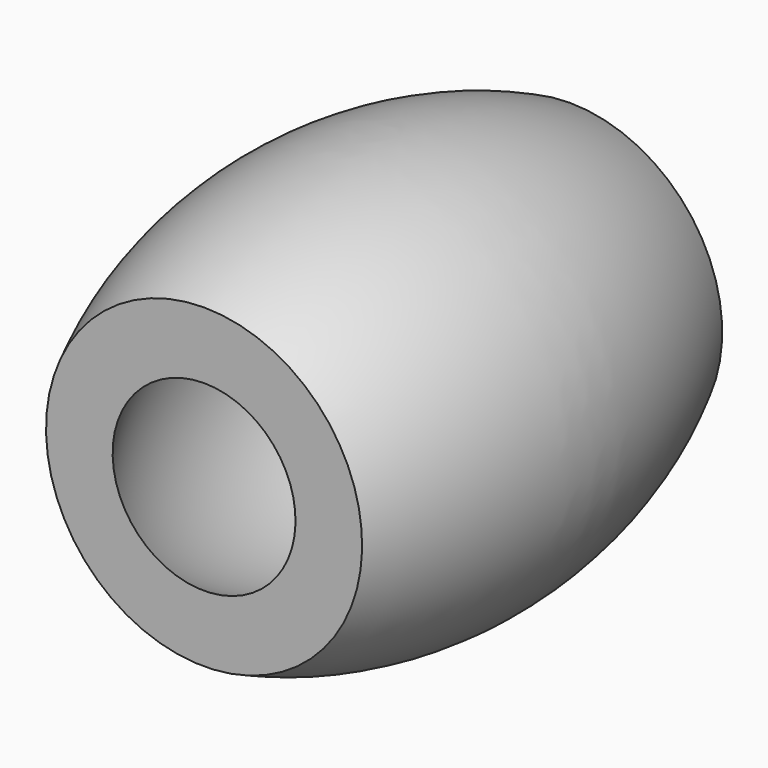
from build123d import *


with BuildPart() as f1:
    # F0 (on Right) → F1 (revolve)
    with BuildSketch(Plane.YZ):
        with BuildLine():
            Line((0, 5.185954), (0, 3))
            ThreePointArc((0, 3), (7.5, 5.009619), (15, 3))
            Line((15, 3), (15, 5))
            ThreePointArc((15, 5), (7.52162, 6.83698), (0, 5.185954))
        make_face()
    revolve(axis=Axis((0, 7.5, 0), (0, 1, 0)))


solid = f1.part
